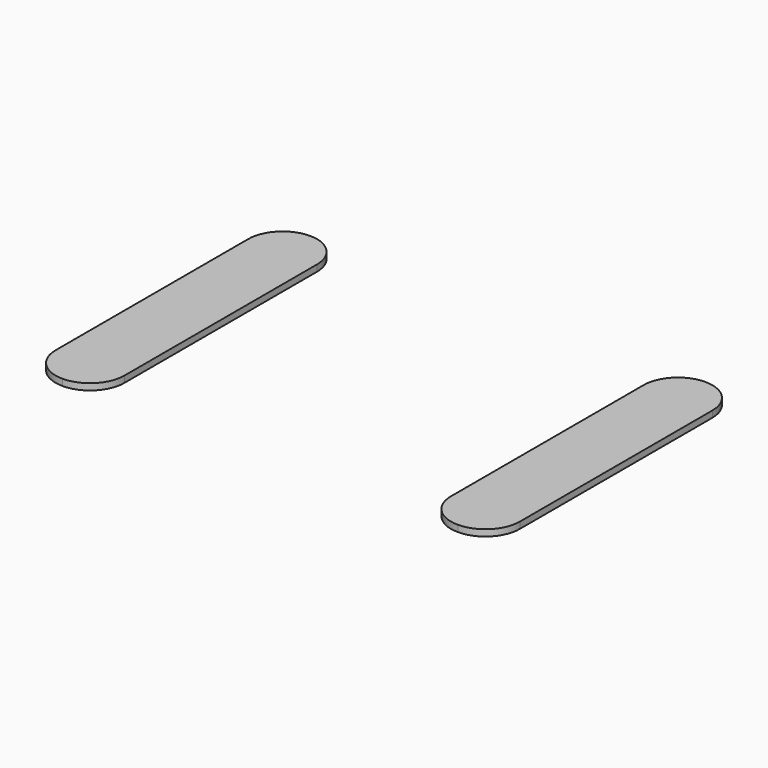
from build123d import *

# Parameters (mm, degrees)
F1_DEPTH = 9.525


with BuildPart() as f1:
    # F0 (on Top) → F1 (new body)
    with BuildSketch(Plane.XY):
        with BuildLine():
            ThreePointArc((-256.085868, 27.602117), (-292.006893, 12.723142), (-306.885868, -23.197883))
            Line((-306.885868, -23.197883), (-306.885868, -378.797883))
            ThreePointArc((-306.885868, -378.797883), (-292.006893, -414.718907), (-256.085868, -429.597883))
            ThreePointArc((-256.085868, -429.597883), (-220.164844, -414.718907), (-205.285868, -378.797883))
            Line((-205.285868, -378.797883), (-205.285868, -23.197883))
            ThreePointArc((-205.285868, -23.197883), (-220.164844, 12.723142), (-256.085868, 27.602117))
        make_face()
    extrude(amount=F1_DEPTH)


with BuildPart() as f2_1:
    # F2: copy of F1
    add(f1.part.moved(Location((220.98, 0, 0))))


with BuildPart() as f1_1:
    # F3: moved
    add(f1.part.moved(Location((-363.22, 0, 0))))


solid = Compound([f2_1.part, f1_1.part])
